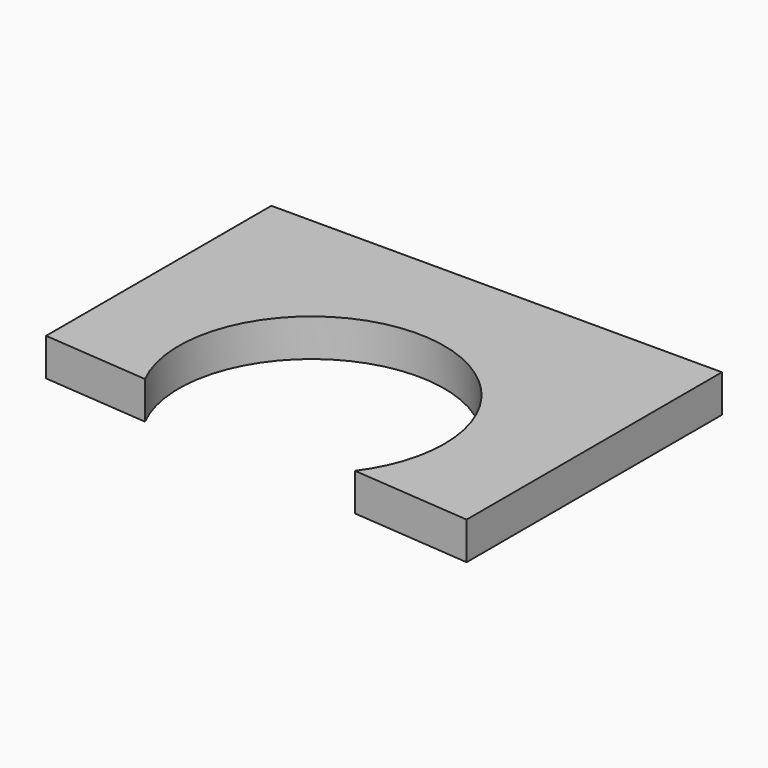
from build123d import *

# Parameters (mm, degrees)
F1_DEPTH = 12.7


with BuildPart() as f1:
    # F0 (on Top) → F1 (new body)
    with BuildSketch(Plane.XY):
        with BuildLine():
            Line((76.534073, 58.965346), (-75.865927, 58.965346))
            Line((-75.865927, 58.965346), (-75.865927, -36.284654))
            Line((-75.865927, -36.284654), (-40.022153, -39.271635))
            ThreePointArc((-40.022153, -39.271635), (-10.480659, 24.784551), (44.913518, -18.88901))
            ThreePointArc((44.913518, -18.88901), (42.65233, -32.960358), (36.096447, -45.614851))
            Line((36.096447, -45.614851), (76.534073, -48.984654))
            Line((76.534073, -48.984654), (76.534073, 58.965346))
        make_face()
    extrude(amount=F1_DEPTH)


solid = f1.part
